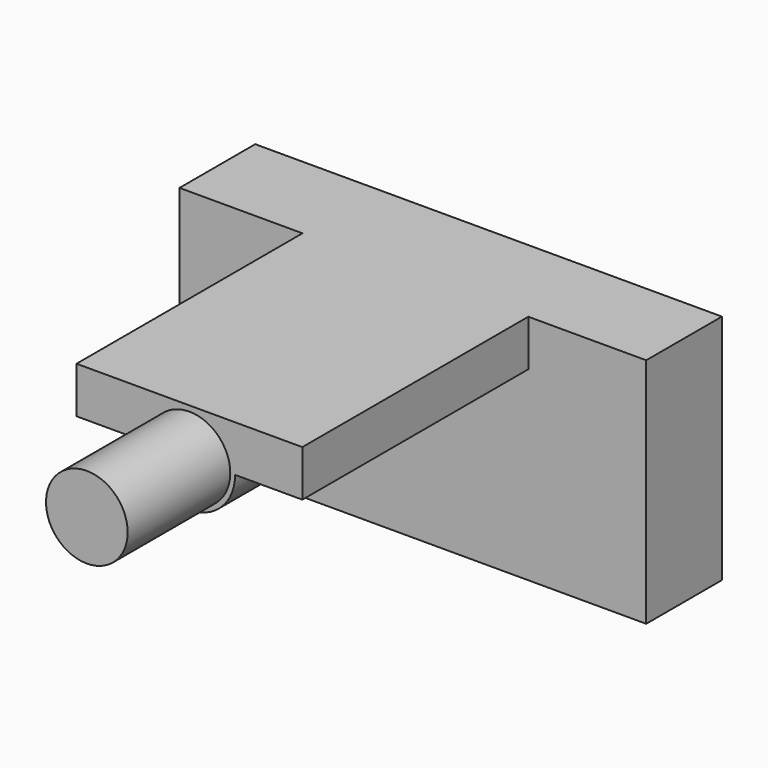
from build123d import *

# Parameters (mm, degrees)
F0_W      = 15.83
F0_H      = 7.87
F1_DEPTH  = 3.21
F2_W      = 13.03
F2_H      = 4.67
F3_DEPTH  = 1.75
F4_R      = 1.505
F4_R_2    = 0.565
F5_DEPTH  = 1.75
F6_W      = 7.66
F6_H      = 1.57
F7_DEPTH  = 9.58
F8_R      = 1.55
F9_DEPTH  = 9.58
F10_R     = 1.385
F11_DEPTH = 4.35


with BuildPart() as f1:
    # F0 (on Front) → F1 (new body)
    with BuildSketch(Plane.XZ):
        with Locations((7.915, 3.935)):
            Rectangle(F0_W, F0_H)
    extrude(amount=F1_DEPTH)

    # F2 (on face) → F3 (cut)
    with BuildSketch(Plane(origin=(0, 0, 0), x_dir=(-1, 0, 0), z_dir=(0, 1, 0))):
        with Locations((-7.915, 3.935)):
            Rectangle(F2_W, F2_H)
    extrude(amount=-F3_DEPTH, mode=Mode.SUBTRACT)

    # F4 (on face) → F5 (join, through all)
    with BuildSketch(Plane(origin=(0, -1.75, 0), x_dir=(-1, 0, 0), z_dir=(0, 1, 0))):
        with Locations((-7.915, 3.935)):
            Circle(F4_R)
        with Locations((-7.915, 3.935)):
            Circle(F4_R_2, mode=Mode.SUBTRACT)
    extrude(amount=F5_DEPTH)

    # F6 (on face) → F7 (join)
    with BuildSketch(Plane.XZ.offset(3.21)):
        with Locations((8, 7.085)):
            Rectangle(F6_W, F6_H)
    extrude(amount=F7_DEPTH)

    # F8 (on face) → F9 (join, through all)
    with BuildSketch(Plane.XZ.offset(12.79)):
        with Locations((8, 6.3)):
            Circle(F8_R)
    extrude(amount=-F9_DEPTH)

    # F10 (on face) → F11 (join)
    with BuildSketch(Plane.XZ.offset(12.79)):
        with Locations((8, 6.3)):
            Circle(F10_R)
    extrude(amount=F11_DEPTH)


solid = f1.part
